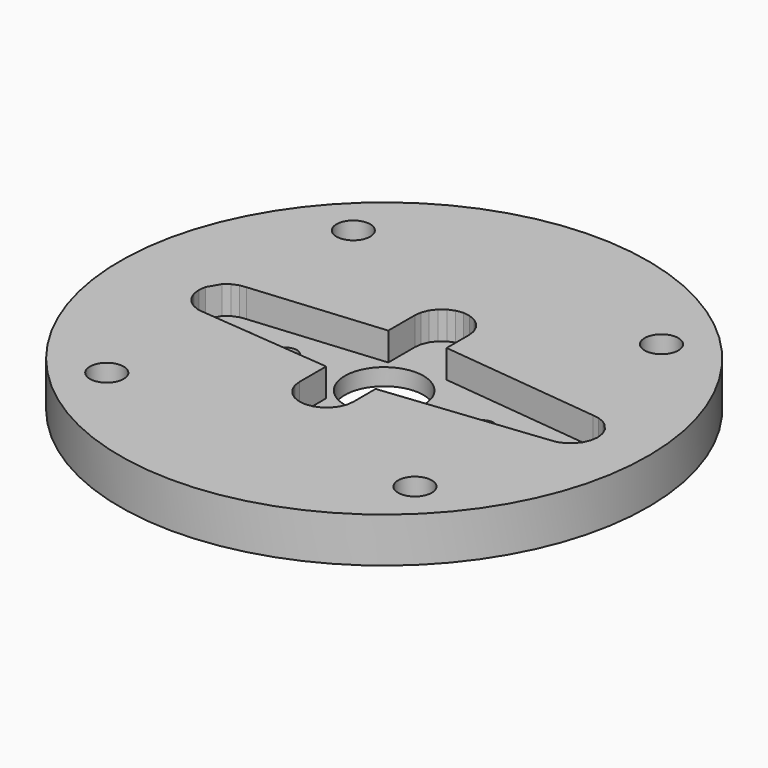
from build123d import *

# Parameters (mm, degrees)
CIRCLE001_R            = 0.99
EXTRUDE060_DEPTH       = 4
CIRCLE002_R            = 0.98
EXTRUDE059_DEPTH       = 4
CIRCLE003_R            = 0.99
EXTRUDE058_DEPTH       = 4
CIRCLE004_R            = 0.98
EXTRUDE057_DEPTH       = 4
CIRCLE051_R            = 3.5
EXTRUDE056_DEPTH       = 1.5
EXTRUDE055_DEPTH       = 2.5
CIRCLE049_R            = 2.6
EXTRUDE052_DEPTH       = 1.5
CIRCLE048_R            = 2.6
EXTRUDE051_DEPTH       = 1.5
CIRCLE047_R            = 2.6
EXTRUDE050_DEPTH       = 1.5
CIRCLE050_R            = 2.6
EXTRUDE049_DEPTH       = 1.5
CIRCLE045_R            = 1.5
EXTRUDE045_DEPTH       = 4
CIRCLE043_R            = 1.5
EXTRUDE046_DEPTH       = 4
CIRCLE046_R            = 1.5
EXTRUDE047_DEPTH       = 4
CIRCLE044_R            = 1.5
EXTRUDE048_DEPTH       = 4
CIRCLE040_R            = 23.5
EXTRUDE044_DEPTH       = 4
CUT015_PLACEMENT_ANGLE = 45
CUT018_PLACEMENT_ANGLE = 180


with BuildPart() as extrude060:
    # Circle001 → Extrude060 (new body)
    with BuildSketch(Plane(origin=(100.138196, 1.761986, -7), x_dir=(1, 0, 0), z_dir=(0, 0, -1))):
        Circle(CIRCLE001_R)
    extrude(amount=-EXTRUDE060_DEPTH)


with BuildPart() as extrude059:
    # Circle002 (on Circle) → Extrude059 (new body)
    with BuildSketch(Plane(origin=(104.140973, 1.752854, -7), x_dir=(1, 0, 0), z_dir=(0, 0, -1))):
        Circle(CIRCLE002_R)
    extrude(amount=-EXTRUDE059_DEPTH)


with BuildPart() as extrude058:
    # Circle003 (on Circle) → Extrude058 (new body)
    with BuildSketch(Plane(origin=(121.638501, 1.757256, -7), x_dir=(1, 0, 0), z_dir=(0, 0, -1))):
        Circle(CIRCLE003_R)
    extrude(amount=-EXTRUDE058_DEPTH)


with BuildPart() as extrude057:
    # Circle004 → Extrude057 (new body)
    with BuildSketch(Plane(origin=(125.641919, 1.759529, -7), x_dir=(1, 0, 0), z_dir=(0, 0, -1))):
        Circle(CIRCLE004_R)
    extrude(amount=-EXTRUDE057_DEPTH)


with BuildPart() as extrude056:
    # Circle051 → Extrude056 (new body)
    with BuildSketch(Plane(origin=(115.082764, -1.512482, 32.5), x_dir=(1, 0, 0), z_dir=(0, 0, 1))):
        Circle(CIRCLE051_R)
    extrude(amount=EXTRUDE056_DEPTH)


with BuildPart() as fusion016:
    # Wire001 → Extrude055 (new body)
    with BuildSketch(Plane(origin=(418.588715, 55.5117, 32.5), x_dir=(1, 0, 0), z_dir=(0, 0, 1))):
        Polygon((0, 0), (-11.754715, 1.0599), (-12.322327, 1.134499), (-12.902222, 1.374699), (-13.400116, 1.756802), (-14.0224, 2.834702), (-14.104401, 3.456902), (-14.0224, 4.079201), (-13.782227, 4.6591), (-13.400116, 5.157001), (-12.902283, 5.539154), (-12.322998, 5.780178), (-11.755127, 5.854), (0, 6.913898), (0, 9.889698), (0.077576, 10.479198), (0.31778, 11.059101), (0.69989, 11.557003), (1.197784, 11.939098), (1.777679, 12.179302), (2.399994, 12.261303), (3.022186, 12.179302), (3.602081, 11.939098), (4.100098, 11.557003), (4.482178, 11.059101), (4.722382, 10.479198), (4.799988, 9.889698), (4.799988, 7.405499), (19.059692, 5.853401), (19.622192, 5.779301), (20.202087, 5.539101), (20.601379, 5.2327), (21.082184, 4.6591), (21.322388, 4.079201), (21.404297, 3.456902), (21.322388, 2.834702), (21.082184, 2.254799), (20.601379, 1.681099), (20.202087, 1.374699), (19.622192, 1.134499), (19.059692, 1.060501), (4.799988, -0.4916), (4.799988, -2.9758), (4.722382, -3.5653), (4.482178, -4.145199), (4.100098, -4.6432), (3.602081, -5.025299), (3.022186, -5.265499), (2.398834, -5.366161), (1.777679, -5.265499), (1.197784, -5.025299), (0.69989, -4.6432), (0.31778, -4.145199), (0.077576, -3.5653), (0, -2.9758), align=None)
    extrude(amount=EXTRUDE055_DEPTH)


with BuildPart() as fusion016_1:
    # Extrude055 placement: moved
    add(fusion016.part.moved(Location((-305.905368, -60.481077, -2.5))))

    # Fusion015: union Extrude056
    add(extrude056.part)


with BuildPart() as fusion016_2:
    # Fusion015 placement: moved
    add(fusion016_1.part.moved(Location((-2.193024, 3.267531, -37))))

    # Fusion016: union Extrude060, Extrude059, Extrude058, Extrude057
    add(extrude060.part)
    add(extrude059.part)
    add(extrude058.part)
    add(extrude057.part)


with BuildPart() as fusion016_3:
    # Fusion016 placement: moved
    add(fusion016_2.part.moved(Location((-42.889772, -1.655092, 0))))


with BuildPart() as extrude052:
    # Circle049 → Extrude052 (new body)
    with BuildSketch(Plane(origin=(70, -19.29598, -3), x_dir=(1, 0, 0), z_dir=(0, 0, 1))):
        Circle(CIRCLE049_R)
    extrude(amount=-EXTRUDE052_DEPTH)


with BuildPart() as extrude051:
    # Circle048 → Extrude051 (new body)
    with BuildSketch(Plane(origin=(89.397382, 0.101403, -3), x_dir=(1, 0, 0), z_dir=(0, 0, 1))):
        Circle(CIRCLE048_R)
    extrude(amount=-EXTRUDE051_DEPTH)


with BuildPart() as extrude050:
    # Circle047 (on Cut) → Extrude050 (new body)
    with BuildSketch(Plane(origin=(70, 19.498785, -3), x_dir=(1, 0, 0), z_dir=(0, 0, 1))):
        Circle(CIRCLE047_R)
    extrude(amount=-EXTRUDE050_DEPTH)


with BuildPart() as extrude049:
    # Circle050 → Extrude049 (new body)
    with BuildSketch(Plane(origin=(50.602618, 0.101403, -3), x_dir=(1, 0, 0), z_dir=(0, 0, 1))):
        Circle(CIRCLE050_R)
    extrude(amount=-EXTRUDE049_DEPTH)


with BuildPart() as extrude045:
    # Circle045 → Extrude045 (new body)
    with BuildSketch(Plane(origin=(50.602618, 0.101403, -3), x_dir=(1, 0, 0), z_dir=(0, 0, 1))):
        Circle(CIRCLE045_R)
    extrude(amount=-EXTRUDE045_DEPTH)


with BuildPart() as extrude046:
    # Circle043 → Extrude046 (new body)
    with BuildSketch(Plane(origin=(70, 19.498785, -3), x_dir=(1, 0, 0), z_dir=(0, 0, 1))):
        Circle(CIRCLE043_R)
    extrude(amount=-EXTRUDE046_DEPTH)


with BuildPart() as extrude047:
    # Circle046 → Extrude047 (new body)
    with BuildSketch(Plane(origin=(89.397382, 0.101403, -3), x_dir=(1, 0, 0), z_dir=(0, 0, 1))):
        Circle(CIRCLE046_R)
    extrude(amount=-EXTRUDE047_DEPTH)


with BuildPart() as extrude048:
    # Circle044 → Extrude048 (new body)
    with BuildSketch(Plane(origin=(70, -19.29598, -3), x_dir=(1, 0, 0), z_dir=(0, 0, 1))):
        Circle(CIRCLE044_R)
    extrude(amount=-EXTRUDE048_DEPTH)


with BuildPart() as cut0_disk:
    # Circle040 (on Fusion) → Extrude044 (new body)
    with BuildSketch(Plane(origin=(70, 0.1, -3), x_dir=(1, 0, 0), z_dir=(0, 0, -1))):
        Circle(CIRCLE040_R)
    extrude(amount=EXTRUDE044_DEPTH)

    # Cut008: cut Extrude048
    add(extrude048.part, mode=Mode.SUBTRACT)

    # Cut009: cut Extrude047
    add(extrude047.part, mode=Mode.SUBTRACT)

    # Cut010: cut Extrude046
    add(extrude046.part, mode=Mode.SUBTRACT)

    # Cut011: cut Extrude045
    add(extrude045.part, mode=Mode.SUBTRACT)

    # Cut012: cut Extrude049
    add(extrude049.part, mode=Mode.SUBTRACT)

    # Cut013: cut Extrude050
    add(extrude050.part, mode=Mode.SUBTRACT)

    # Cut014: cut Extrude051
    add(extrude051.part, mode=Mode.SUBTRACT)

    # Cut015: cut Extrude052
    add(extrude052.part, mode=Mode.SUBTRACT)


with BuildPart() as cut0_disk_1:
    # Cut015 placement: moved
    add(cut0_disk.part.moved(Location((20.573185, -49.468206, 0))).rotate(Axis((20.573185, -49.468206, 0), (0, 0, 1)), CUT015_PLACEMENT_ANGLE))

    # Cut018: cut Fusion016
    add(fusion016_3.part, mode=Mode.SUBTRACT)


with BuildPart() as cut0_disk_2:
    # Cut018 placement: moved
    add(cut0_disk_1.part.moved(Location((-27.831247, -11.66637, 3.7))).rotate(Axis((-27.831247, -11.66637, 3.7), (1, 0, 0)), CUT018_PLACEMENT_ANGLE))


solid = cut0_disk_2.part
